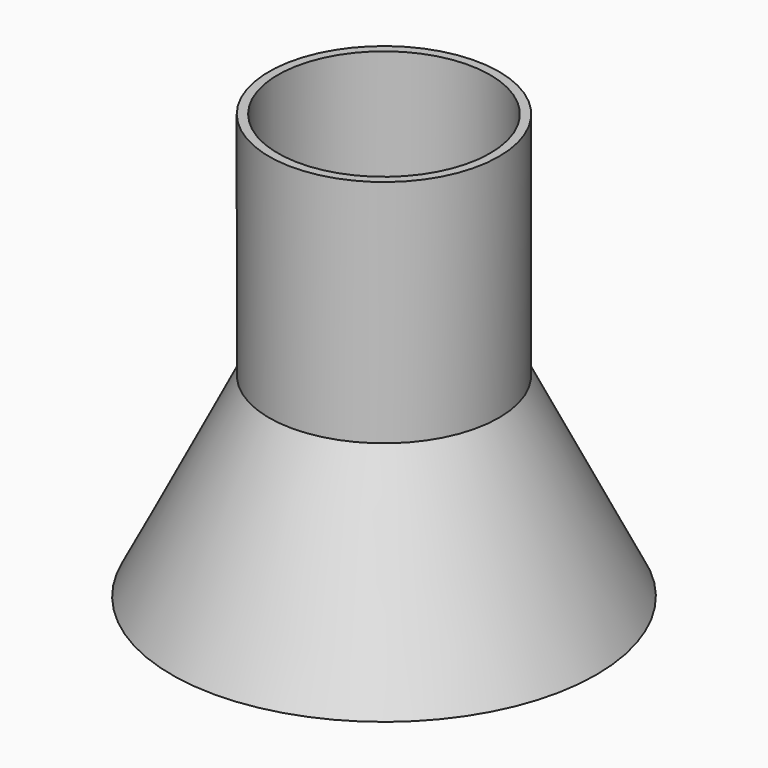
from build123d import *

# Parameters (mm, degrees)
F0_R        = 32.5
F0_R_2      = 30
F1_DEPTH    = 120
F1_FACE_R   = 32.5
F1_FACE_R_2 = 30
F4_DEPTH    = 10
F5_DEPTH    = 14
F5_FACE_R   = 30
F6_DEPTH    = 10


with BuildPart() as f1:
    # F0 (on Top) → F1 (new body)
    with BuildSketch(Plane.XY):
        Circle(F0_R)
        Circle(F0_R_2, mode=Mode.SUBTRACT)
    extrude(amount=F1_DEPTH)

    # F2 (on Right) → F3 (revolve)
    with BuildSketch(Plane.YZ):
        Polygon((-56, 0), (-30, 52), (-30, 60), (-60, 0), align=None)
    revolve(axis=Axis((0, 0, 30), (0, 0, 1)))

    # F1_face (on face) → F4 (cut)
    with BuildSketch(Plane(origin=(0, 0, 0), x_dir=(1, 0, 0), z_dir=(0, 0, -1))):
        Circle(F1_FACE_R)
        Circle(F1_FACE_R_2, mode=Mode.SUBTRACT)
    extrude(amount=-F4_DEPTH, mode=Mode.SUBTRACT)

    # F0 (on Top) → F5 (join)
    with BuildSketch(Plane.XY):
        Circle(F0_R_2)
    extrude(amount=F5_DEPTH)

    # F5_face (on face) → F6 (cut)
    with BuildSketch(Plane(origin=(0, 0, 0), x_dir=(1, 0, 0), z_dir=(0, 0, -1))):
        Circle(F5_FACE_R)
    extrude(amount=-F6_DEPTH, mode=Mode.SUBTRACT)


solid = f1.part
